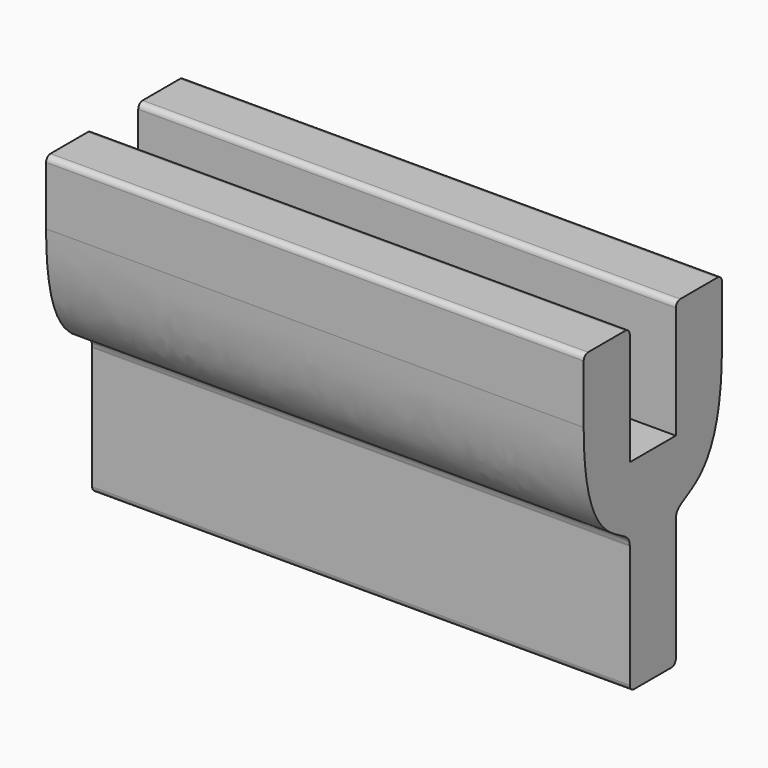
from build123d import *

# Parameters (mm, degrees)
F1_DEPTH = 42


with BuildPart() as f1:
    # F0 (on Right) → F1 (new body)
    with BuildSketch(Plane.YZ):
        with BuildLine():
            Line((2.25, 10), (6.75, 10))
            Line((6.75, 10), (6.75, 14.565794))
            ThreePointArc((6.75, 14.565794), (6.622824, 14.872824), (6.315794, 15))
            Line((6.315794, 15), (2.684206, 15))
            ThreePointArc((2.684206, 15), (2.377176, 14.872824), (2.25, 14.565794))
            Line((2.25, 14.565794), (2.25, 10))
        make_face()
        with BuildLine():
            Line((2.25, 5.776099), (2.25, 0.066271))
            add(Edge.make_bspline(
                [(2.25, 0.066271), (2.301244, 1.931495), (6.745765, 0.11442), (6.75, 10)],
                knots=[0.125472, 0.125472, 0.125472, 0.125472, 10.965856, 10.965856, 10.965856, 10.965856], degree=3))
            Line((6.75, 10), (2.25, 10))
            Line((2.25, 10), (2.25, 5.776099))
        make_face()
        with BuildLine():
            ThreePointArc((-2.25, -9.565794), (-2.122824, -9.872824), (-1.815794, -10))
            Line((-1.815794, -10), (1.815794, -10))
            ThreePointArc((1.815794, -10), (2.122824, -9.872824), (2.25, -9.565794))
            Line((2.25, -9.565794), (2.25, 0))
            add(Edge.make_bspline(
                [(2.25, 0), (2.249402, 0.022599), (2.249407, 0.044682), (2.25, 0.066271)],
                knots=[0, 0, 0, 0, 0.125472, 0.125472, 0.125472, 0.125472], degree=3))
            Line((2.25, 0.066271), (2.25, 5.776099))
            Line((2.25, 5.776099), (-2.25, 5.776099))
            Line((-2.25, 5.776099), (-2.25, 0.066271))
            add(Edge.make_bspline(
                [(-2.25, 0), (-2.249402, 0.022599), (-2.249407, 0.044682), (-2.25, 0.066271)],
                knots=[0, 0, 0, 0, 0.125472, 0.125472, 0.125472, 0.125472], degree=3))
            Line((-2.25, 0), (-2.25, -9.565794))
        make_face()
        with BuildLine():
            add(Edge.make_bspline(
                [(-2.25, 0.066271), (-2.301244, 1.931495), (-6.745765, 0.11442), (-6.75, 10)],
                knots=[0.125472, 0.125472, 0.125472, 0.125472, 10.965856, 10.965856, 10.965856, 10.965856], degree=3))
            Line((-2.25, 0.066271), (-2.25, 5.776099))
            Line((-2.25, 5.776099), (-2.25, 10))
            Line((-2.25, 10), (-6.75, 10))
        make_face()
        with BuildLine():
            Line((-6.75, 14.565794), (-6.75, 10))
            Line((-6.75, 10), (-2.25, 10))
            Line((-2.25, 10), (-2.25, 14.565794))
            ThreePointArc((-2.25, 14.565794), (-2.377176, 14.872824), (-2.684206, 15))
            Line((-2.684206, 15), (-6.315794, 15))
            ThreePointArc((-6.315794, 15), (-6.622824, 14.872824), (-6.75, 14.565794))
        make_face()
    extrude(amount=F1_DEPTH)


solid = f1.part
